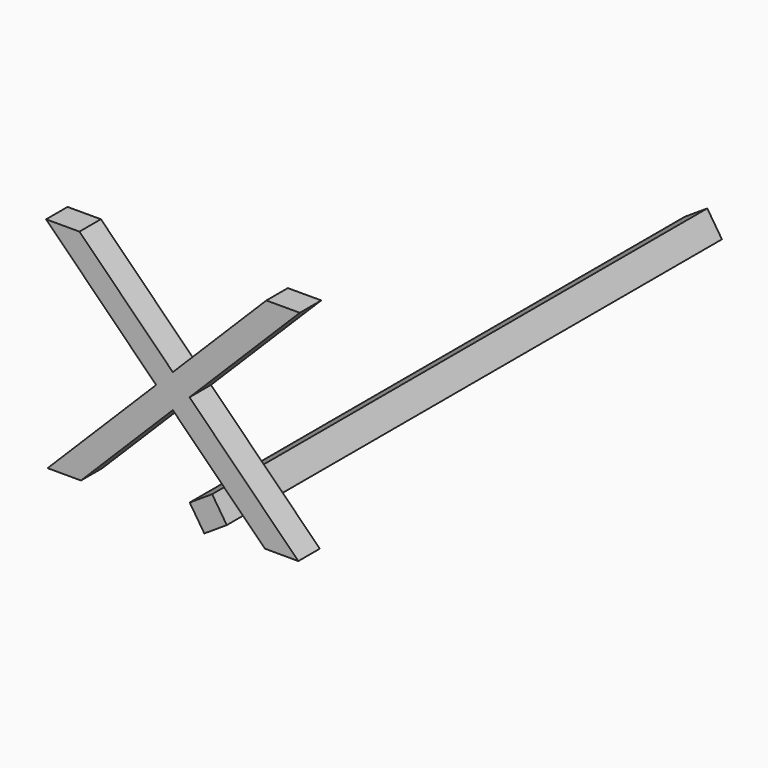
from build123d import *

# Parameters (mm, degrees)
F1_DEPTH = 78
F3_DEPTH = 1800


with BuildPart() as f1:
    # F0 (on Front) → F1 (new body)
    with BuildSketch(Plane.XZ):
        Polygon((-657.1528180463, 664.0831939611), (-337.1048440452, 344.0352199601), (-288.5272647169, 392.614993121), (-560.074417666, 664.1621460701), align=None)
        Polygon((-288.5272647169, 392.614993121), (-239.9403645209, 344.028092925), (80.7148309418, 664.6832883878), (-16.5503563337, 664.6041843684), align=None)
        Polygon((-337.1048440452, 344.0352199601), (-288.5190407656, 295.4494166804), (-239.9403645209, 344.028092925), (-288.5272647169, 392.614993121), align=None)
        Polygon((-288.5190407656, 295.4494166804), (-20.7567149784, 27.6870908932), (76.5097539556, 27.5779744484), (-239.9403645209, 344.028092925), align=None)
        Polygon((-555.6812721261, 28.2871853199), (-288.5190407656, 295.4494166804), (-337.1048440452, 344.0352199601), (-652.7297527163, 28.3960572188), align=None)
    extrude(amount=F1_DEPTH)


with BuildPart() as f3:
    # F2 (on Front) → F3 (new body)
    with BuildSketch(Plane.XZ):
        Polygon((-236.6035736401, 65.3403520422), (-301.9439256822, 22.7417793547), (-259.3453529948, -42.5985726874), (-194.0050009526, 0), align=None)
    extrude(amount=-F3_DEPTH)


solid = Compound([f1.part, f3.part])
